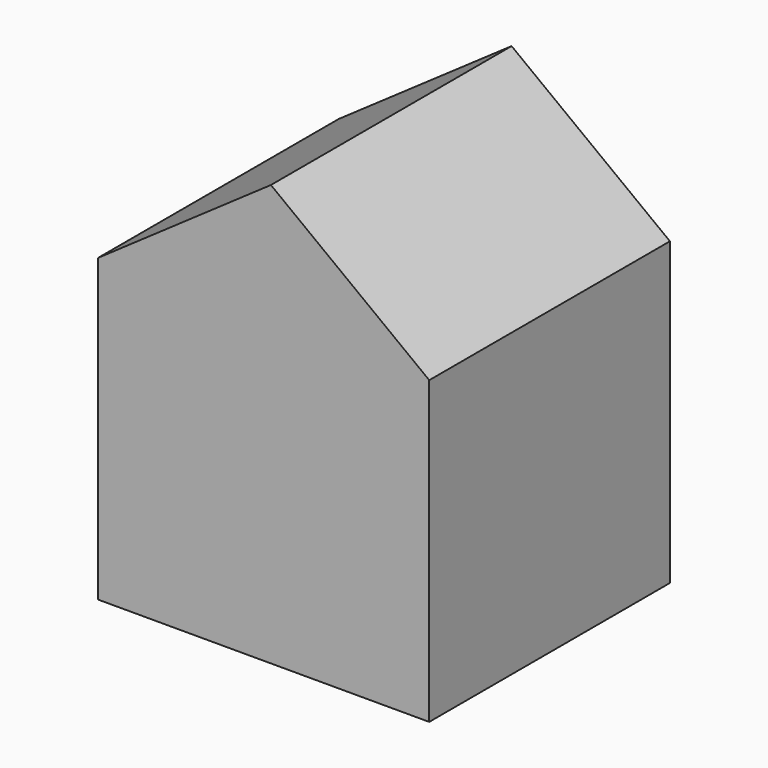
from build123d import *

# Parameters (mm, degrees)
F0_W     = 139.783366
F0_H     = 127
F1_DEPTH = 127
F2_R     = 31.75
F3_DEPTH = 76.2
F4_R     = 10.257682
F5_DEPTH = 50.8


with BuildPart() as f1:
    # F0 (on Front) → F1 (new body)
    with BuildSketch(Plane.XZ):
        with Locations((69.891683, 63.5)):
            Rectangle(F0_W, F0_H)
        Polygon((72.955946, 177.8), (0, 127), (139.783366, 127), align=None)
    extrude(amount=F1_DEPTH)

    # F4 (on Front) → F5 (join)
    with BuildSketch(Plane.XZ):
        with Locations((74.66124, 18.485555)):
            Circle(F4_R)
    extrude(amount=-F5_DEPTH)


with BuildPart() as f3:
    # F2 (on Front) → F3 (new body)
    with BuildSketch(Plane.XZ):
        with Locations((73.743366, 63.923329)):
            Circle(F2_R)
    extrude(amount=F3_DEPTH)


solid = Compound([f1.part, f3.part])
